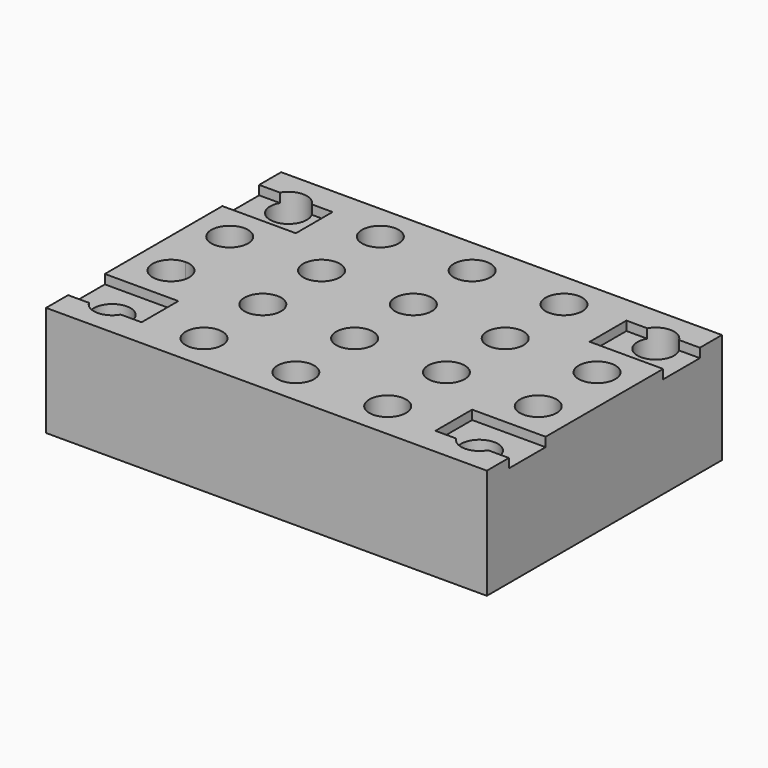
from build123d import *

# Parameters (mm, degrees)
F0_W     = 304.8
F0_H     = 203.2
F0_R     = 12.7
F1_DEPTH = 76.2
F2_W     = 152.4
F2_H     = 12.7
F3_DEPTH = 25.4
F4_W     = 50.8
F4_H     = 31.75
F5_DEPTH = 6.35


with BuildPart() as f1:
    # F0 (on Top) → F1 (new body)
    with BuildSketch(Plane.XY):
        Rectangle(F0_W, F0_H)
        with Locations((-127, -76.2)):
            Circle(F0_R, mode=Mode.SUBTRACT)
        with Locations((-63.5, -76.2)):
            Circle(F0_R, mode=Mode.SUBTRACT)
        with BuildLine():
            ThreePointArc((-127, -12.7), (-118.0197438789, -16.4197438789), (-114.3, -25.4))
            ThreePointArc((-114.3, -25.4), (-135.9802561211, -34.3802561211), (-127, -12.7))
        make_face(mode=Mode.SUBTRACT)
        with Locations((-63.5, -25.4)):
            Circle(F0_R, mode=Mode.SUBTRACT)
        with Locations((0, -76.2)):
            Circle(F0_R, mode=Mode.SUBTRACT)
        with Locations((63.5, -76.2)):
            Circle(F0_R, mode=Mode.SUBTRACT)
        with Locations((127, -76.2)):
            Circle(F0_R, mode=Mode.SUBTRACT)
        with Locations((0, -25.4)):
            Circle(F0_R, mode=Mode.SUBTRACT)
        with Locations((63.5, -25.4)):
            Circle(F0_R, mode=Mode.SUBTRACT)
        with Locations((127, -25.4)):
            Circle(F0_R, mode=Mode.SUBTRACT)
        with BuildLine():
            ThreePointArc((-114.3, 25.4), (-118.0197438789, 16.4197438789), (-127, 12.7))
            ThreePointArc((-127, 12.7), (-135.9802561211, 34.3802561211), (-114.3, 25.4))
        make_face(mode=Mode.SUBTRACT)
        with Locations((-63.5, 25.4)):
            Circle(F0_R, mode=Mode.SUBTRACT)
        with Locations((-127, 76.2)):
            Circle(F0_R, mode=Mode.SUBTRACT)
        with Locations((-63.5, 76.2)):
            Circle(F0_R, mode=Mode.SUBTRACT)
        with Locations((0, 25.4)):
            Circle(F0_R, mode=Mode.SUBTRACT)
        with Locations((63.5, 25.4)):
            Circle(F0_R, mode=Mode.SUBTRACT)
        with Locations((127, 25.4)):
            Circle(F0_R, mode=Mode.SUBTRACT)
        with Locations((0, 76.2)):
            Circle(F0_R, mode=Mode.SUBTRACT)
        with Locations((63.5, 76.2)):
            Circle(F0_R, mode=Mode.SUBTRACT)
        with Locations((127, 76.2)):
            Circle(F0_R, mode=Mode.SUBTRACT)
    extrude(amount=F1_DEPTH)

    # F2 (on face) → F3 (join)
    with BuildSketch(Plane(origin=(0, 0, 0), x_dir=(1, 0, 0), z_dir=(0, 0, -1))):
        Rectangle(F2_W, F2_H)
    extrude(amount=F3_DEPTH)

    # F4 (on face) → F5 (cut)
    with BuildSketch(Plane.XY.offset(76.2)):
        with Locations((-127, 66.675)):
            Rectangle(F4_W, F4_H)
        with Locations((-127, -66.675)):
            Rectangle(F4_W, F4_H)
        with Locations((127, 66.675)):
            Rectangle(F4_W, F4_H)
        with Locations((127, -66.675)):
            Rectangle(F4_W, F4_H)
    extrude(amount=-F5_DEPTH, mode=Mode.SUBTRACT)


solid = f1.part
